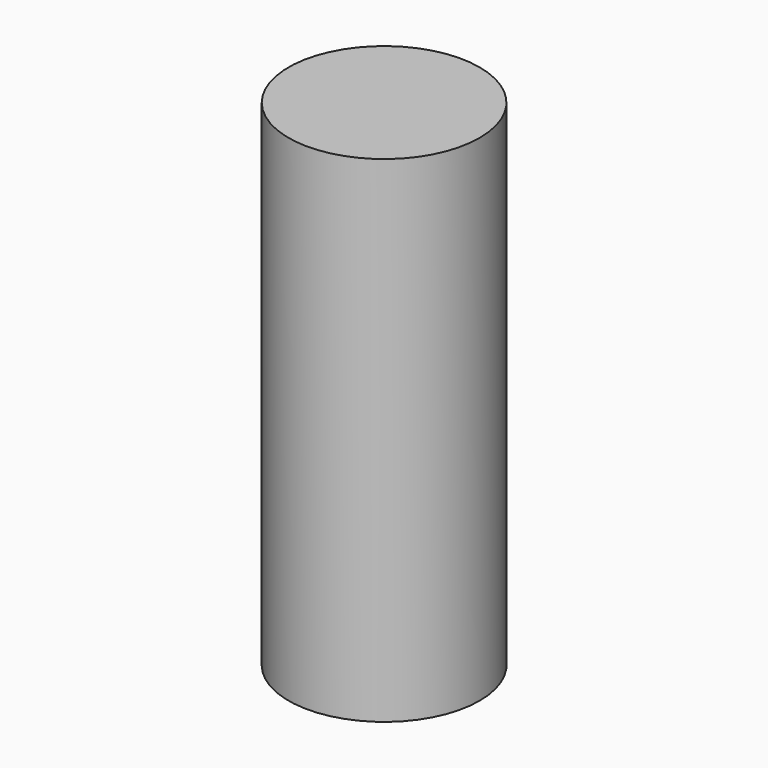
from build123d import *

# Parameters (mm, degrees)
SKETCH_R  = 13.5
PAD_DEPTH = 70


with BuildPart() as part:
    # Sketch → Pad (new body)
    with BuildSketch(Plane.XY):
        Circle(SKETCH_R)
    extrude(amount=PAD_DEPTH)


solid = part.part
